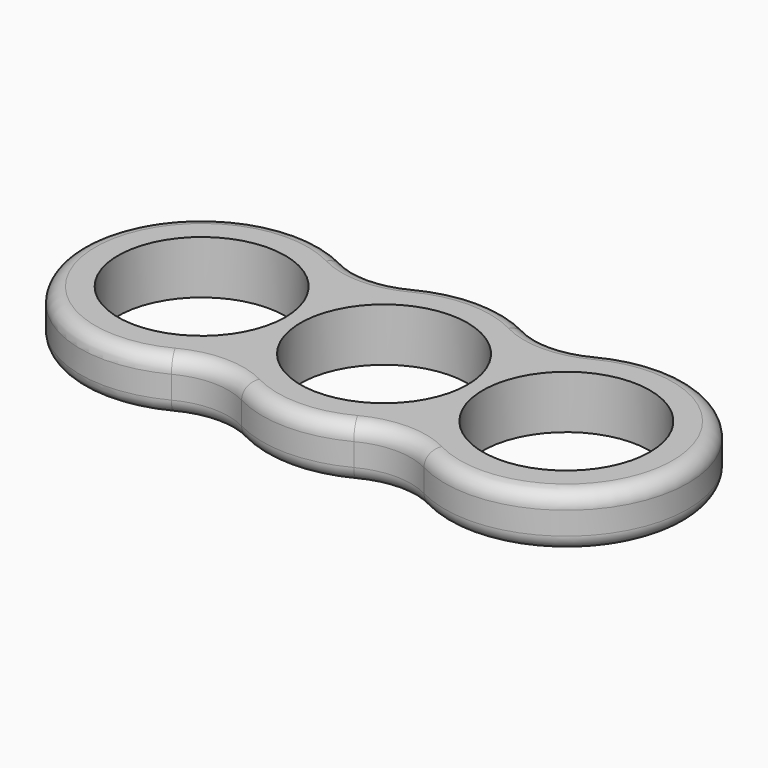
from build123d import *

# Parameters (mm, degrees)
SKETCH_R  = 11
PAD_DEPTH = 7
FILLET_R  = 2


with BuildPart() as part:
    # Sketch → Pad (new body)
    with BuildSketch(Plane.XY):
        with BuildLine():
            ThreePointArc((-7.384634, -14.193914), (0, -16), (7.384634, -14.193914))
            ThreePointArc((16.615361, -14.193911), (11.999997, -13.065125), (7.384634, -14.193914))
            ThreePointArc((16.615361, -14.193911), (40, 0), (16.615361, 14.193911))
            ThreePointArc((7.384634, 14.193914), (11.999997, 13.065125), (16.615361, 14.193911))
            ThreePointArc((7.384634, 14.193914), (0, 16), (-7.384634, 14.193914))
            ThreePointArc((-16.615359, 14.19391), (-11.999996, 13.065125), (-7.384634, 14.193914))
            ThreePointArc((-16.615359, 14.19391), (-40, 2e-06), (-16.615362, -14.193912))
            ThreePointArc((-7.384634, -14.193914), (-11.999998, -13.065125), (-16.615362, -14.193912))
        make_face()
        with Locations((-24, 0)):
            Circle(SKETCH_R, mode=Mode.SUBTRACT)
        Circle(SKETCH_R, mode=Mode.SUBTRACT)
        with Locations((24, 0)):
            Circle(SKETCH_R, mode=Mode.SUBTRACT)
    extrude(amount=PAD_DEPTH)

    # Fillet
    fillet_edges = [part.edges().sort_by_distance(p)[0] for p in [
        (40, 0, 0),
        (40, 0, 7),
    ]]
    fillet(fillet_edges, radius=FILLET_R)


solid = part.part
